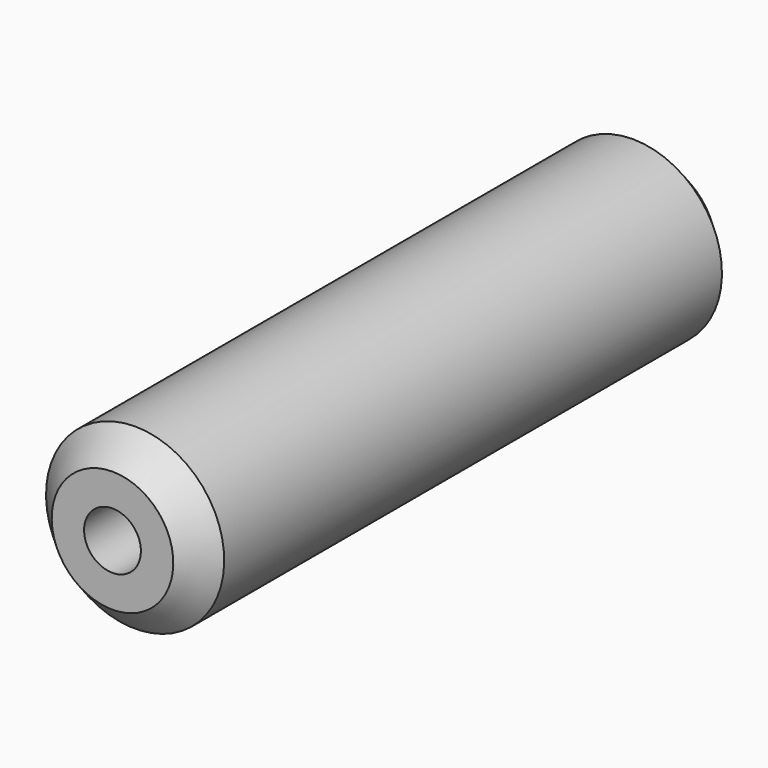
from build123d import *

# Parameters (mm, degrees)
F0_W    = 6
F0_H    = 0.5364
F2_SIZE = 0.25


with BuildPart() as f1:
    # F0 (on Right) → F1 (revolve)
    with BuildSketch(Plane.YZ):
        with Locations((3, 0.5192)):
            Rectangle(F0_W, F0_H)
    revolve(axis=Axis((0, 3, 0), (0, 1, 0)))

    # F2
    f2_edges = [f1.edges().sort_by_distance(p)[0] for p in [
        (0, 0, -0.7874),
        (0, 6, -0.7874),
    ]]
    chamfer(f2_edges, length=F2_SIZE)


solid = f1.part
